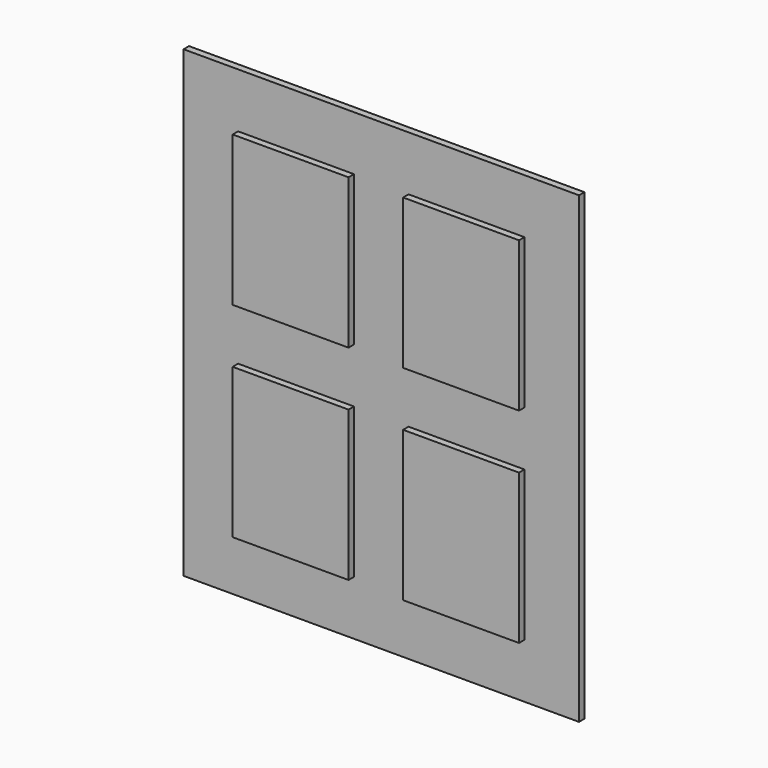
from build123d import *

# Parameters (mm, degrees)
F0_W     = 215.9
F0_H     = 279.4
F1_DEPTH = 25.4
F2_DEPTH = 12.7


with BuildPart() as f1:
    # F0 (on Front) → F1 (new body)
    with BuildSketch(Plane.XZ):
        with Locations((101.381325, 133.572059)):
            Rectangle(F0_W, F0_H)
        with Locations((-216.118665, 133.615996)):
            Rectangle(F0_W, F0_H)
        with Locations((-216.118665, -247.384004)):
            Rectangle(F0_W, F0_H)
        with Locations((101.381325, -247.427941)):
            Rectangle(F0_W, F0_H)
    extrude(amount=F1_DEPTH)


with BuildPart() as f2:
    # F0 (on Front) → F2 (new body)
    with BuildSketch(Plane.XZ):
        Polygon((310.931335, 374.915996), (-324.068665, 374.915996), (-425.668665, 374.915996), (-425.668665, -488.684004), (310.931335, -488.684004), align=None)
        with Locations((-216.118665, -247.384004)):
            Rectangle(F0_W, F0_H, mode=Mode.SUBTRACT)
        with Locations((101.381325, -247.427941)):
            Rectangle(F0_W, F0_H, mode=Mode.SUBTRACT)
        with Locations((-216.118665, 133.615996)):
            Rectangle(F0_W, F0_H, mode=Mode.SUBTRACT)
        with Locations((101.381325, 133.572059)):
            Rectangle(F0_W, F0_H, mode=Mode.SUBTRACT)
    extrude(amount=F2_DEPTH)


solid = Compound([f1.part, f2.part])
